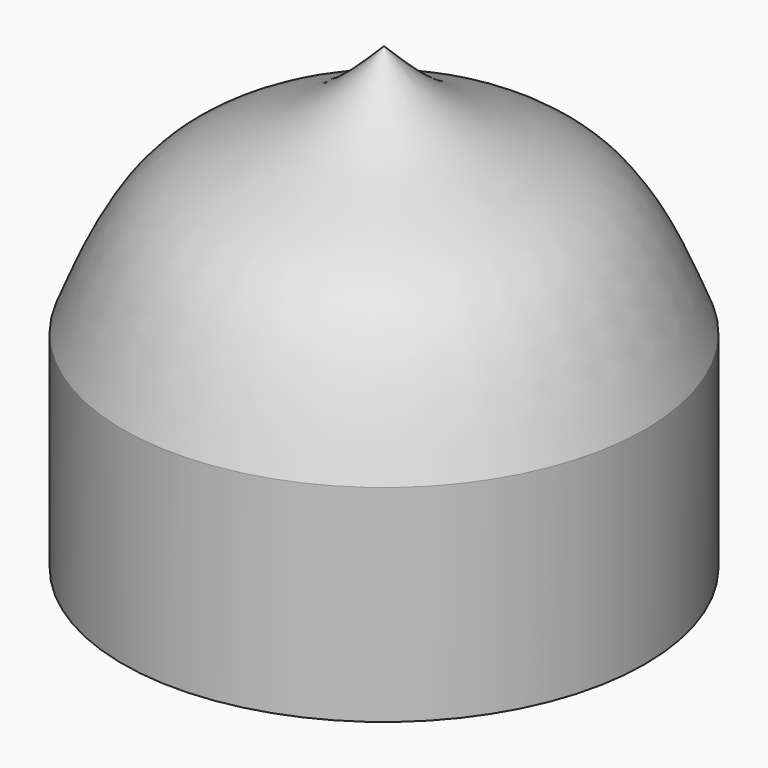
from build123d import *


with BuildPart() as f1:
    # F0 (on Front) → F1 (revolve)
    with BuildSketch(Plane.XZ):
        with BuildLine():
            Line((-31.7060314119, 0), (0, 0))
            Line((0, 0), (0, 55.743098259))
            add(Edge.make_bspline(
                [(-31.7060314119, 25.0672250986), (-29.3620200651, 30.9508674328), (-24.8055891649, 42.3878469398), (-8.2663521684, 47.4144203021), (-2.5985929188, 53.1249127376), (0, 55.743098259)],
                knots=[0, 0, 0, 0, 0.3645636199, 0.7086607943, 1, 1, 1, 1], degree=3))
            Line((-31.7060314119, 25.0672250986), (-31.7060314119, 0))
        make_face()
    revolve(axis=Axis((0, 0, 27.8715491295), (0, 0, -1)))


solid = f1.part
